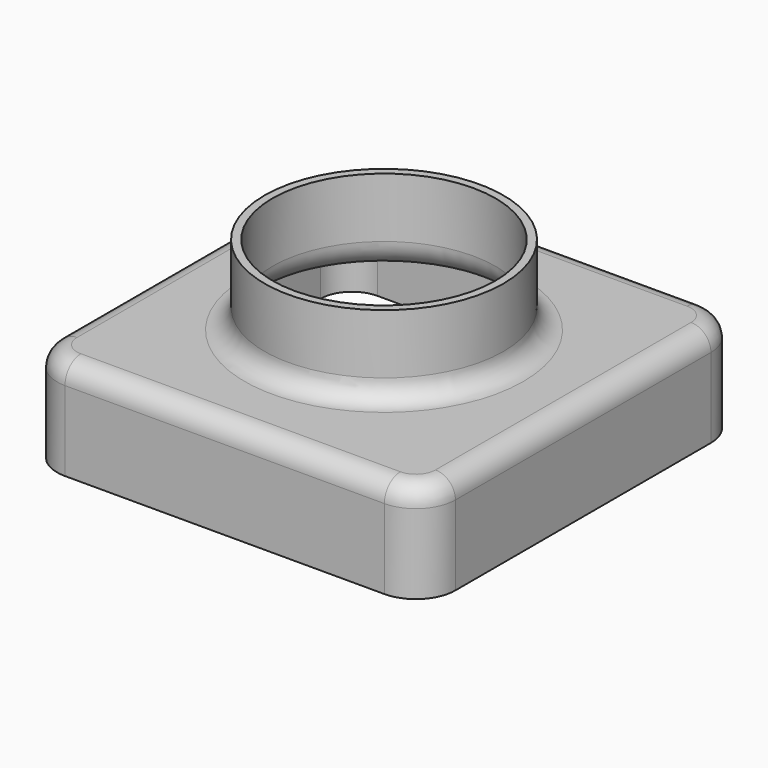
from build123d import *

# Parameters (mm, degrees)
SKETCH_W     = 100
SKETCH_H     = 100
PAD_DEPTH    = 25
SKETCH001_R  = 30
PAD001_DEPTH = 20
FILLET_R     = 9.906
FILLET001_R  = 5
THICKNESS_T  = -2


with BuildPart() as part:
    # Sketch → Pad (new body)
    with BuildSketch(Plane.XY):
        with Locations((50, 50)):
            Rectangle(SKETCH_W, SKETCH_H)
    extrude(amount=PAD_DEPTH)

    # Sketch001 (on Face6 of Pad) → Pad001 (join)
    with BuildSketch(Plane.XY.offset(25)):
        with Locations((50, 50)):
            Circle(SKETCH001_R)
    extrude(amount=PAD001_DEPTH)

    # Fillet
    fillet_edges = [part.edges().sort_by_distance(p)[0] for p in [
        (0, 0, 12.5),
        (100, 0, 12.5),
        (100, 100, 12.5),
        (0, 100, 12.5),
    ]]
    fillet(fillet_edges, radius=FILLET_R)

    # Fillet001
    fillet001_edges = [part.edges().sort_by_distance(p)[0] for p in [
        (0, 50, 25),
        (2.9014, 97.0986, 25),
        (2.9014, 2.9014, 25),
        (50, 100, 25),
        (50, 0, 25),
        (97.0986, 97.0986, 25),
        (97.0986, 2.9014, 25),
        (100, 50, 25),
        (20, 50, 25),
    ]]
    fillet(fillet001_edges, radius=FILLET001_R)

    # Thickness
    thickness_openings = [part.faces().sort_by_distance(p)[0] for p in [
        (50, 50, 0),
        (50, 50, 45),
    ]]
    offset(amount=THICKNESS_T, openings=thickness_openings, kind=Kind.INTERSECTION)


solid = part.part
